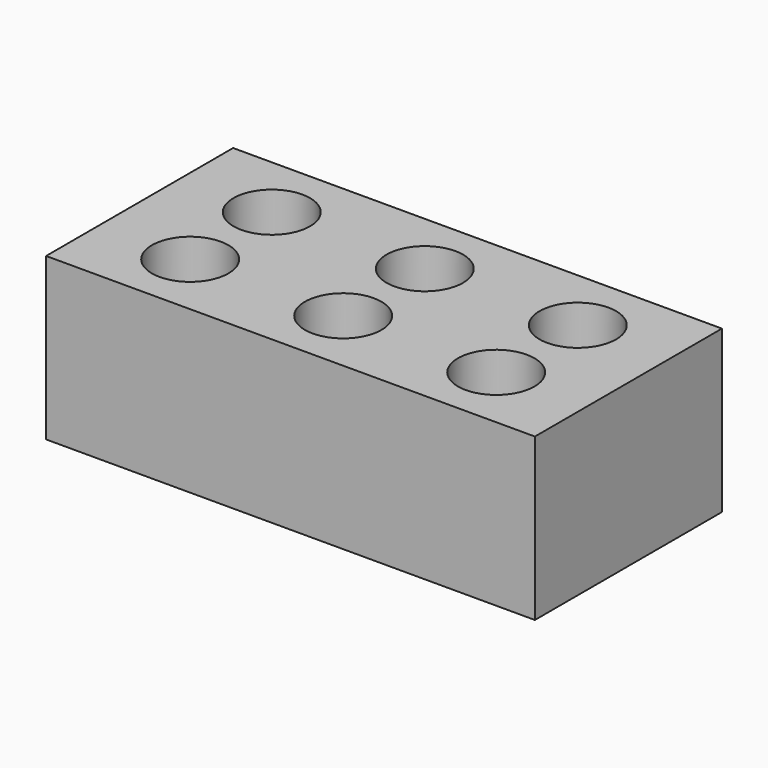
from build123d import *

# Parameters (mm, degrees)
CYLINDER_R        = 18
CYLINDER_DEPTH    = 76
CYLINDER001_R     = 18
CYLINDER001_DEPTH = 76
CYLINDER002_R     = 18
CYLINDER002_DEPTH = 76
CYLINDER003_R     = 18
CYLINDER003_DEPTH = 76
CYLINDER004_R     = 18
CYLINDER004_DEPTH = 76
CYLINDER005_R     = 18
CYLINDER005_DEPTH = 76
BOX_W             = 230
BOX_H             = 110
BOX_DEPTH         = 76


with BuildPart() as obj1:
    # Cylinder → Cylinder (new body)
    with BuildSketch(Plane.XY):
        Circle(CYLINDER_R)
    extrude(amount=CYLINDER_DEPTH)


with BuildPart() as obj2:
    # Cylinder001 → Cylinder001 (new body)
    with BuildSketch(Plane(origin=(72, 0, 0), x_dir=(1, 0, 0), z_dir=(0, 0, 1))):
        Circle(CYLINDER001_R)
    extrude(amount=CYLINDER001_DEPTH)


with BuildPart() as obj3:
    # Cylinder002 → Cylinder002 (new body)
    with BuildSketch(Plane(origin=(144, 0, 0), x_dir=(1, 0, 0), z_dir=(0, 0, 1))):
        Circle(CYLINDER002_R)
    extrude(amount=CYLINDER002_DEPTH)


with BuildPart() as obj4:
    # Cylinder003 → Cylinder003 (new body)
    with BuildSketch(Plane(origin=(0, 48, 0), x_dir=(1, 0, 0), z_dir=(0, 0, 1))):
        Circle(CYLINDER003_R)
    extrude(amount=CYLINDER003_DEPTH)


with BuildPart() as obj5:
    # Cylinder004 → Cylinder004 (new body)
    with BuildSketch(Plane(origin=(72, 48, 0), x_dir=(1, 0, 0), z_dir=(0, 0, 1))):
        Circle(CYLINDER004_R)
    extrude(amount=CYLINDER004_DEPTH)


with BuildPart() as fusion:
    # Cylinder005 → Cylinder005 (new body)
    with BuildSketch(Plane(origin=(144, 48, 0), x_dir=(1, 0, 0), z_dir=(0, 0, 1))):
        Circle(CYLINDER005_R)
    extrude(amount=CYLINDER005_DEPTH)

    # Fusion: union obj1, obj2, obj3, obj4, obj5
    add(obj1.part)
    add(obj2.part)
    add(obj3.part)
    add(obj4.part)
    add(obj5.part)


with BuildPart() as obj6:
    # Box → Box (new body)
    with BuildSketch(Plane(origin=(-43, -31, 0), x_dir=(1, 0, 0), z_dir=(0, 0, 1))):
        with Locations((115, 55)):
            Rectangle(BOX_W, BOX_H)
    extrude(amount=BOX_DEPTH)

    # Cut: cut Fusion
    add(fusion.part, mode=Mode.SUBTRACT)


solid = obj6.part
